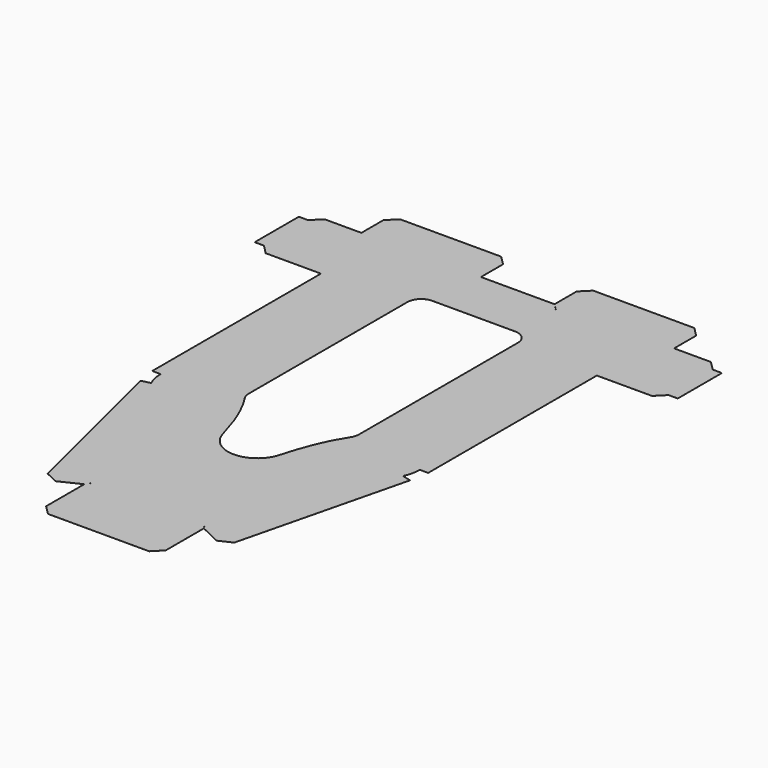
from build123d import *

# Parameters (mm, degrees)
F1_DEPTH = 0.0254
F3_DEPTH = 0.0264001


with BuildPart() as f1:
    # F0 (on Top) → F1 (new body)
    with BuildSketch(Plane.XY):
        with BuildLine():
            Line((-266.7, 523.1384), (-190.5, 523.1384))
            Line((-190.5, 523.1384), (-190.5, 232.0036))
            Line((-190.5, 232.0036), (-178.928937776, 232.0036))
            ThreePointArc((-178.928937776, 232.0036), (-177.6175752012, 220.4072359452), (-173.7497192111, 209.3965583486))
            Line((-173.7497192111, 209.3965583486), (-186.0810970216, 206.3589406484))
            Line((-186.0810970216, 206.3589406484), (-185.4371490138, 203.7447979358))
            Line((-185.4371490138, 203.7447979358), (-128.9310970216, -25.6446593516))
            Line((-128.9310970216, -25.6446593516), (-111.0708283601, -34.0403861296))
            Line((-111.0708283601, -34.0403861296), (-82.55, -20.2483983797))
            Line((-82.55, -20.2483983797), (-82.55, -86.1568))
            Line((-82.55, -86.1568), (-69.85, -98.8568))
            Line((-69.85, -98.8568), (0, -98.8568))
            Line((0, -98.8568), (69.85, -98.8568))
            Line((69.85, -98.8568), (82.55, -86.1568))
            Line((82.55, -86.1568), (82.55, -20.2483983797))
            Line((82.55, -20.2483983797), (111.0708283601, -34.0403861296))
            Line((111.0708283601, -34.0403861296), (128.9310970216, -25.6446593516))
            Line((128.9310970216, -25.6446593516), (185.4371490138, 203.7447979358))
            Line((185.4371490138, 203.7447979358), (186.0810970216, 206.3589406484))
            Line((186.0810970216, 206.3589406484), (173.7497192111, 209.3965583486))
            ThreePointArc((173.7497192111, 209.3965583486), (177.6175752012, 220.4072359452), (178.928937776, 232.0036))
            Line((178.928937776, 232.0036), (190.5, 232.0036))
            Line((190.5, 232.0036), (190.5, 523.1384))
            Line((190.5, 523.1384), (266.7, 523.1384))
            Line((266.7, 523.1384), (279.4, 535.8384))
            Line((279.4, 535.8384), (292.1, 535.8384))
            Line((292.1, 535.8384), (292.1, 612.0384))
            Line((292.1, 612.0384), (279.4, 612.0384))
            Line((279.4, 612.0384), (266.7, 624.7384))
            Line((266.7, 624.7384), (215.9, 624.7384))
            Line((215.9, 624.7384), (215.9, 662.8384))
            Line((215.9, 662.8384), (203.2, 675.5384))
            Line((203.2, 675.5384), (127, 675.5384))
            Line((127, 675.5384), (63.5, 675.5384))
            Line((63.5, 675.5384), (50.8, 662.8384))
            Line((50.8, 662.8384), (50.8, 624.7384))
            Line((50.8, 624.7384), (0, 624.7384))
            Line((0, 624.7384), (-50.8, 624.7384))
            Line((-50.8, 624.7384), (-50.8, 662.8384))
            Line((-50.8, 662.8384), (-63.5, 675.5384))
            Line((-63.5, 675.5384), (-127, 675.5384))
            Line((-127, 675.5384), (-203.2, 675.5384))
            Line((-203.2, 675.5384), (-215.9, 662.8384))
            Line((-215.9, 662.8384), (-215.9, 624.7384))
            Line((-215.9, 624.7384), (-266.7, 624.7384))
            Line((-266.7, 624.7384), (-279.4, 612.0384))
            Line((-279.4, 612.0384), (-292.1, 612.0384))
            Line((-292.1, 612.0384), (-292.1, 535.8384))
            Line((-292.1, 535.8384), (-279.4, 535.8384))
            Line((-279.4, 535.8384), (-266.7, 523.1384))
        make_face()
        with BuildLine():
            ThreePointArc((39.2624389008, 164.7605591868), (24.6946656513, 143.1441682497), (0, 134.7978))
            ThreePointArc((0, 134.7978), (-24.6946656513, 143.1441682497), (-39.2624389008, 164.7605591868))
            add(Edge.make_bspline(
                [(-39.2624389008, 164.7605591868), (-52.8458419076, 214.4044098408), (-73.0392225397, 244.9366100052)],
                knots=[5.3343094377, 5.3343094377, 5.3343094377, 5.7597386581, 5.7597386581, 5.7597386581], degree=2, weights=[1, 0.9774614244, 1]))
            ThreePointArc((-73.0392225397, 244.9366100052), (-75.3926997643, 249.9584905228), (-76.2, 255.4454209315))
            Line((-76.2, 255.4454209315), (-76.2, 472.3384))
            Line((-76.2, 472.3384), (-76.2, 529.4884))
            ThreePointArc((-76.2, 529.4884), (-70.6203841816, 542.9587841816), (-57.15, 548.5384))
            Line((-57.15, 548.5384), (0, 548.5384))
            Line((0, 548.5384), (57.15, 548.5384))
            ThreePointArc((57.15, 548.5384), (70.6203841816, 542.9587841816), (76.2, 529.4884))
            Line((76.2, 529.4884), (76.2, 472.3384))
            Line((76.2, 472.3384), (76.2, 255.4454209315))
            ThreePointArc((76.2, 255.4454209315), (75.3926997643, 249.9584905228), (73.0392225397, 244.9366100052))
            add(Edge.make_bspline(
                [(73.0392225397, 244.9366100052), (52.8458419076, 214.4044098408), (39.2624389008, 164.7605591868)],
                knots=[0.5234466491, 0.5234466491, 0.5234466491, 0.9488758695, 0.9488758695, 0.9488758695], degree=2, weights=[1, 0.9774614244, 1]))
        make_face(mode=Mode.SUBTRACT)
    extrude(amount=F1_DEPTH)

    # F2 (on Top) → F3 (cut, through all)
    with BuildSketch(Plane.XY):
        Polygon((-203.1910197439, 612.0473802561), (-215.9, 624.7563605122), (-215.9179605122, 624.7384), (-203.2089802561, 612.0294197439), align=None)
        Polygon((-50.7820394878, 624.7384), (-50.8, 624.7563605122), (-63.5089802561, 612.0473802561), (-63.4910197439, 612.0294197439), align=None)
        Polygon((-69.8607588781, 0.006748077), (-82.5607588781, -20.2416503028), (-82.5715177561, -20.2588038499), (-82.55, -20.2723000039), (-82.5392411219, -20.2551464567), (-69.8392411219, -0.006748077), align=None)
        Polygon((50.8, 624.7563605122), (50.7820394878, 624.7384), (63.4910197439, 612.0294197439), (63.5089802561, 612.0473802561), align=None)
        Polygon((215.9, 624.7563605122), (203.1910197439, 612.0473802561), (203.2089802561, 612.0294197439), (215.9179605122, 624.7384), align=None)
        Polygon((82.5607588781, -20.2416503028), (69.8607588781, 0.006748077), (69.8392411219, -0.006748077), (82.5392411219, -20.2551464567), (82.55, -20.2723000039), (82.5715177561, -20.2588038499), align=None)
        Polygon((-177.8089802561, 535.8473802561), (-190.5179605122, 523.1384), (-190.5, 523.1204394878), (-177.7910197439, 535.8294197439), align=None)
        Polygon((190.5, 523.1204394878), (190.5179605122, 523.1384), (177.8089802561, 535.8473802561), (177.7910197439, 535.8294197439), align=None)
    extrude(amount=F3_DEPTH, mode=Mode.SUBTRACT)


solid = f1.part
